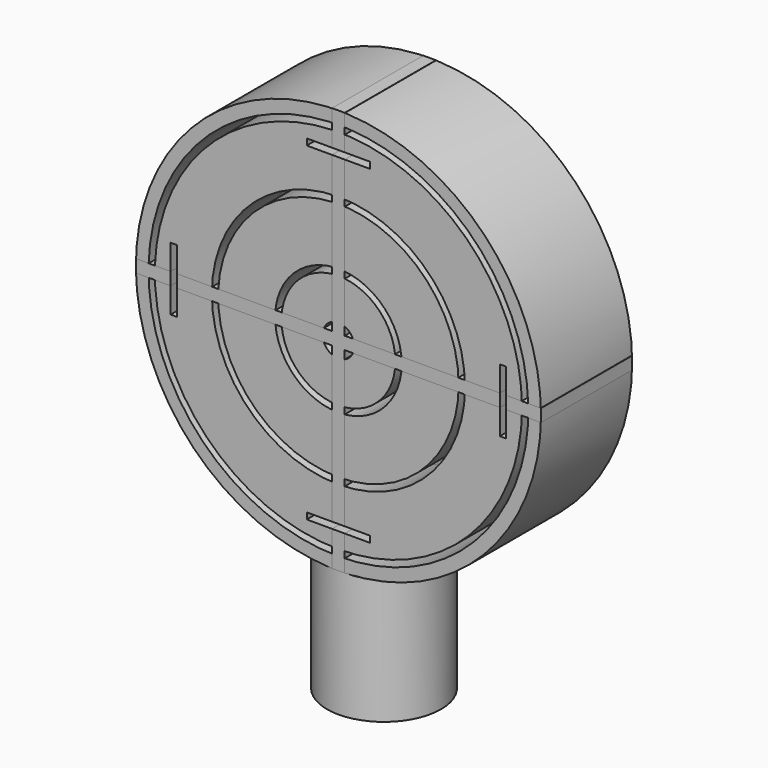
from build123d import *

# Parameters (mm, degrees)
F0_R     = 4.5
F0_R_2   = 3
F1_DEPTH = 10
F3_DEPTH = 4.5
F4_R     = 4
F5_W     = 0.5
F5_H     = 2.75
F5_W_2   = 1
F5_H_2   = 1
F5_W_3   = 2.75
F5_H_3   = 0.5
F6_DEPTH = 9
F5_H_4   = 2
F5_W_4   = 2
F7_DEPTH = 25


with BuildPart() as f1:
    # F0 (on Top) → F1 (new body)
    with BuildSketch(Plane.XY):
        Circle(F0_R)
        Circle(F0_R_2, mode=Mode.SUBTRACT)
    extrude(amount=-F1_DEPTH)

    # F2 (on Front) → F3 (join, symmetric)
    with BuildSketch(Plane.XZ):
        with BuildLine():
            Line((-4.5, 0), (0, 0))
            ThreePointArc((0, 0), (-2.273055155, 0.1622848787), (-4.5, 0.6458474672))
            Line((-4.5, 0.6458474672), (-4.5, 0))
        make_face()
        with BuildLine():
            ThreePointArc((4.5, 0.6458474672), (2.273055155, 0.1622848787), (0, 0))
            Line((0, 0), (4.5, 0))
            Line((4.5, 0), (4.5, 0.6458474672))
        make_face()
        with BuildLine():
            ThreePointArc((-4.5, 0.6458474672), (-2.273055155, 0.1622848787), (0, 0))
            ThreePointArc((0, 0), (2.273055155, 0.1622848787), (4.5, 0.6458474672))
            ThreePointArc((4.5, 0.6458474672), (12.8062484749, 6.4083369534), (16, 16))
            ThreePointArc((16, 16), (-9.5916630466, 28.8062484749), (-4.5, 0.6458474672))
        make_face()
        with BuildLine():
            ThreePointArc((15, 16), (10.6066017178, 5.3933982822), (0, 1))
            ThreePointArc((0, 1), (-10.6066017178, 26.6066017178), (15, 16))
        make_face(mode=Mode.SUBTRACT)
        with BuildLine():
            ThreePointArc((14.5, 16), (-10.2530483272, 26.2530483272), (0, 1.5))
            ThreePointArc((0, 1.5), (10.2530483272, 5.7469516728), (14.5, 16))
        make_face()
        with BuildLine():
            ThreePointArc((10, 16), (7.0710678119, 8.9289321881), (0, 6))
            ThreePointArc((0, 6), (-7.0710678119, 23.0710678119), (10, 16))
        make_face(mode=Mode.SUBTRACT)
        with BuildLine():
            ThreePointArc((9.5, 16), (-6.7175144213, 22.7175144213), (0, 6.5))
            ThreePointArc((0, 6.5), (6.7175144213, 9.2824855787), (9.5, 16))
        make_face()
        with BuildLine():
            ThreePointArc((5, 16), (3.5355339059, 12.4644660941), (0, 11))
            ThreePointArc((0, 11), (-3.5355339059, 19.5355339059), (5, 16))
        make_face(mode=Mode.SUBTRACT)
        with BuildLine():
            ThreePointArc((4.5, 16), (-3.1819805153, 19.1819805153), (0, 11.5))
            ThreePointArc((0, 11.5), (3.1819805153, 12.8180194847), (4.5, 16))
        make_face()
        with BuildLine():
            ThreePointArc((1.25, 16), (0.8838834765, 15.1161165235), (0, 14.75))
            ThreePointArc((0, 14.75), (-0.8838834765, 16.8838834765), (1.25, 16))
        make_face(mode=Mode.SUBTRACT)
    extrude(amount=F3_DEPTH, both=True)

    # F4
    f4_edges = [f1.edges().sort_by_distance(p)[0] for p in [
        (-4.5, -4.5, 0.322924),
        (4.5, -4.5, 0.322924),
        (4.5, 4.5, 0.322924),
        (-4.5, 4.5, 0.322924),
    ]]
    fillet(f4_edges, radius=F4_R)

    # F5 (on face) → F7 (cut)
    with BuildSketch(Plane(origin=(0, 4.5, 0), x_dir=(-1, 0, 0), z_dir=(0, 1, 0))):
        with Locations((-13, 17.5)):
            Rectangle(F5_W, F5_H_4)
        Polygon((-13.25, 15.5), (-12.75, 15.5), (-12.75, 16.5), (-13.25, 16.5), (-13.25, 16), align=None)
        with Locations((-13, 14.5)):
            Rectangle(F5_W, F5_H_4)
        with Locations((-1.5, 3)):
            Rectangle(F5_W_4, F5_H_3)
        Polygon((0, 2.75), (0.5, 2.75), (0.5, 3.25), (-0.5, 3.25), (-0.5, 2.75), align=None)
        with Locations((1.5, 3)):
            Rectangle(F5_W_4, F5_H_3)
        with Locations((13, 14.5)):
            Rectangle(F5_W, F5_H_4)
        Polygon((12.75, 16.5), (12.75, 15.5), (13.25, 15.5), (13.25, 16), (13.25, 16.5), align=None)
        with Locations((13, 17.5)):
            Rectangle(F5_W, F5_H_4)
        with Locations((-1.5, 29)):
            Rectangle(F5_W_4, F5_H_3)
        Polygon((-0.5, 29.25), (-0.5, 28.75), (0.5, 28.75), (0.5, 29.25), (0, 29.25), align=None)
        with Locations((1.5, 29)):
            Rectangle(F5_W_4, F5_H_3)
    extrude(amount=-F7_DEPTH, mode=Mode.SUBTRACT)


with BuildPart() as f6:
    # F5 (on face) → F6 (new body)
    with BuildSketch(Plane(origin=(0, 4.5, 0), x_dir=(-1, 0, 0), z_dir=(0, 1, 0))):
        with BuildLine():
            Line((-0.5, 28.75), (-0.5, 20.472135955))
            ThreePointArc((-0.5, 20.472135955), (0, 20.5), (0.5, 20.472135955))
            Line((0.5, 20.472135955), (0.5, 28.75))
            Line((0.5, 28.75), (-0.5, 28.75))
        make_face()
        with Locations((-0.25, 30.625)):
            Rectangle(F5_W, F5_H)
        with Locations((0.25, 30.625)):
            Rectangle(F5_W, F5_H)
        with BuildLine():
            ThreePointArc((-0.5, 17.1456439237), (0, 17.25), (0.5, 17.1456439237))
            Line((0.5, 17.1456439237), (0.5, 20.472135955))
            ThreePointArc((0.5, 20.472135955), (0, 20.5), (-0.5, 20.472135955))
            Line((-0.5, 20.472135955), (-0.5, 17.1456439237))
        make_face()
        with Locations((0, 16)):
            Rectangle(F5_W_2, F5_H_2)
        with BuildLine():
            Line((-0.5, 16.5), (0.5, 16.5))
            Line((0.5, 16.5), (0.5, 17.1456439237))
            ThreePointArc((0.5, 17.1456439237), (0, 17.25), (-0.5, 17.1456439237))
            Line((-0.5, 17.1456439237), (-0.5, 16.5))
        make_face()
        with BuildLine():
            ThreePointArc((-0.5, 11.527864045), (0, 11.5), (0.5, 11.527864045))
            Line((0.5, 11.527864045), (0.5, 14.8543560763))
            ThreePointArc((0.5, 14.8543560763), (0, 14.75), (-0.5, 14.8543560763))
            Line((-0.5, 14.8543560763), (-0.5, 11.527864045))
        make_face()
        with BuildLine():
            ThreePointArc((-0.5, 14.8543560763), (0, 14.75), (0.5, 14.8543560763))
            Line((0.5, 14.8543560763), (0.5, 15.5))
            Line((0.5, 15.5), (-0.5, 15.5))
            Line((-0.5, 15.5), (-0.5, 14.8543560763))
        make_face()
        with BuildLine():
            Line((-0.5, 3.25), (0.5, 3.25))
            Line((0.5, 3.25), (0.5, 11.527864045))
            ThreePointArc((0.5, 11.527864045), (0, 11.5), (-0.5, 11.527864045))
            Line((-0.5, 11.527864045), (-0.5, 3.25))
        make_face()
        with Locations((-0.25, 1.375)):
            Rectangle(F5_W, F5_H)
        with Locations((0.25, 1.375)):
            Rectangle(F5_W, F5_H)
        with Locations((-14.625, 16.25)):
            Rectangle(F5_W_3, F5_H_3)
        with Locations((-14.625, 15.75)):
            Rectangle(F5_W_3, F5_H_3)
        with BuildLine():
            Line((-12.75, 15.5), (-4.472135955, 15.5))
            ThreePointArc((-4.472135955, 15.5), (-4.5, 16), (-4.472135955, 16.5))
            Line((-4.472135955, 16.5), (-12.75, 16.5))
            Line((-12.75, 16.5), (-12.75, 15.5))
        make_face()
        with BuildLine():
            ThreePointArc((-4.472135955, 16.5), (-4.5, 16), (-4.472135955, 15.5))
            Line((-4.472135955, 15.5), (-1.1456439237, 15.5))
            ThreePointArc((-1.1456439237, 15.5), (-1.25, 16), (-1.1456439237, 16.5))
            Line((-1.1456439237, 16.5), (-4.472135955, 16.5))
        make_face()
        with BuildLine():
            Line((-1.1456439237, 15.5), (-0.5, 15.5))
            Line((-0.5, 15.5), (-0.5, 16.5))
            Line((-0.5, 16.5), (-1.1456439237, 16.5))
            ThreePointArc((-1.1456439237, 16.5), (-1.25, 16), (-1.1456439237, 15.5))
        make_face()
        with BuildLine():
            Line((1.1456439237, 15.5), (4.472135955, 15.5))
            ThreePointArc((4.472135955, 15.5), (4.4930285887, 15.7496120984), (4.5, 16))
            ThreePointArc((4.5, 16), (4.4930285887, 16.2503879016), (4.472135955, 16.5))
            Line((4.472135955, 16.5), (1.1456439237, 16.5))
            ThreePointArc((1.1456439237, 16.5), (1.2236328912, 16.2553870546), (1.25, 16))
            ThreePointArc((1.25, 16), (1.2236328912, 15.7446129454), (1.1456439237, 15.5))
        make_face()
        with BuildLine():
            Line((0.5, 16.5), (0.5, 15.5))
            Line((0.5, 15.5), (1.1456439237, 15.5))
            ThreePointArc((1.1456439237, 15.5), (1.2236328912, 15.7446129454), (1.25, 16))
            ThreePointArc((1.25, 16), (1.2236328912, 16.2553870546), (1.1456439237, 16.5))
            Line((1.1456439237, 16.5), (0.5, 16.5))
        make_face()
        with BuildLine():
            ThreePointArc((4.5, 16), (4.4930285887, 15.7496120984), (4.472135955, 15.5))
            Line((4.472135955, 15.5), (12.75, 15.5))
            Line((12.75, 15.5), (12.75, 16.5))
            Line((12.75, 16.5), (4.472135955, 16.5))
            ThreePointArc((4.472135955, 16.5), (4.4930285887, 16.2503879016), (4.5, 16))
        make_face()
        with Locations((14.625, 15.75)):
            Rectangle(F5_W_3, F5_H_3)
        with Locations((14.625, 16.25)):
            Rectangle(F5_W_3, F5_H_3)
    extrude(amount=-F6_DEPTH)


solid = Compound([f1.part, f6.part])
